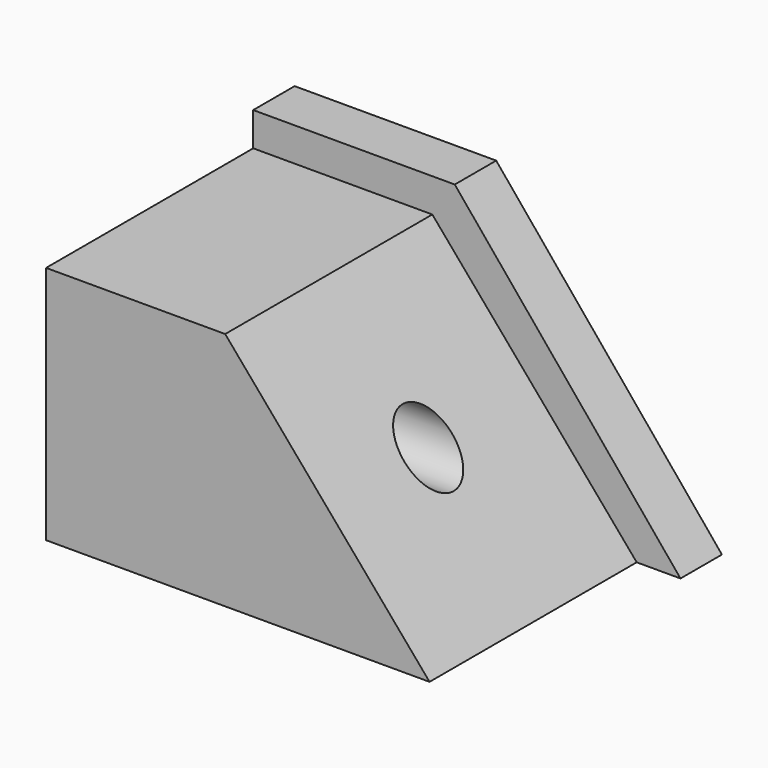
from build123d import *

# Parameters (mm, degrees)
F1_DEPTH = 76.2
F2_DEPTH = 12.7
F3_R     = 7.356687
F4_DEPTH = 104.797916


with BuildPart() as f1:
    # F0 (on Front) → F1 (new body)
    with BuildSketch(Plane.XZ):
        Polygon((0, 58.801956), (0, 0), (94.055586, 0), (43.929327, 58.801956), align=None)
    extrude(amount=F1_DEPTH)

    # F0 (on Front) → F2 (join)
    with BuildSketch(Plane.XZ):
        Polygon((0, 67.064524), (0, 58.801956), (43.929327, 58.801956), (94.055586, 0), (104.796916, 0), (49.437713, 67.064524), align=None)
    extrude(amount=F2_DEPTH)

    # F3 (on Right) → F4 (cut, through all)
    with BuildSketch(Plane.YZ):
        with Locations((-44.999432, 29.680481)):
            Circle(F3_R)
    extrude(amount=F4_DEPTH, mode=Mode.SUBTRACT)


solid = f1.part
